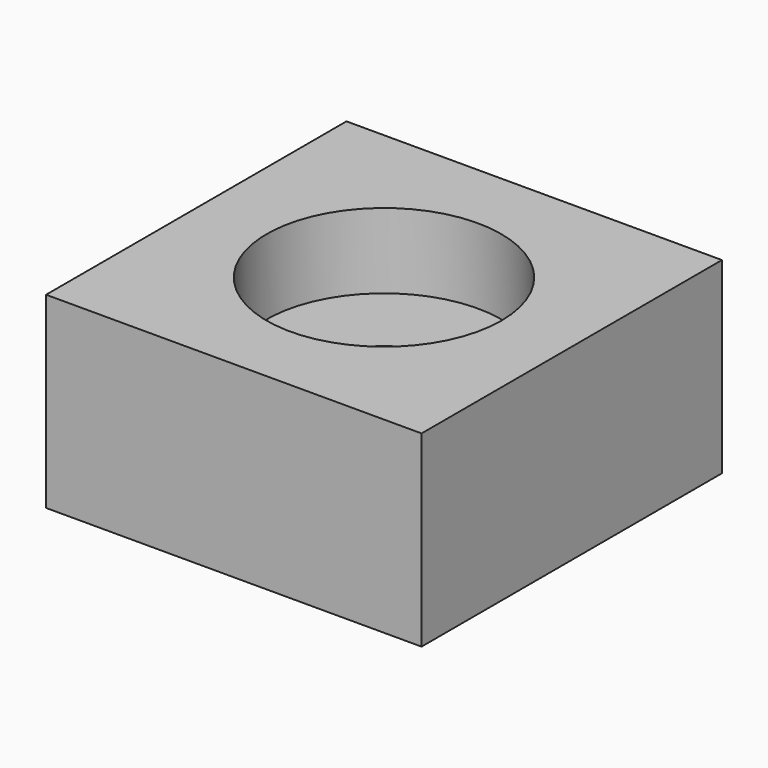
from build123d import *

# Parameters (mm, degrees)
SKETCH_W        = 40
SKETCH_H        = 40
PAD_DEPTH       = 20
SKETCH001_R     = 3.05
POCKET_DEPTH    = 15
SKETCH002_R     = 12.5
POCKET001_DEPTH = 8


with BuildPart() as part:
    # Sketch → Pad (new body)
    with BuildSketch(Plane.XY):
        with Locations((20, 20)):
            Rectangle(SKETCH_W, SKETCH_H)
    extrude(amount=PAD_DEPTH)

    # Sketch001 (on Face6 of Pad) → Pocket (cut)
    with BuildSketch(Plane.XY.offset(20)):
        with Locations((20, 20)):
            Circle(SKETCH001_R)
    extrude(amount=-POCKET_DEPTH, mode=Mode.SUBTRACT)

    # Sketch002 (on Face5 of Pocket) → Pocket001 (cut)
    with BuildSketch(Plane.XY.offset(20)):
        with Locations((20, 20)):
            Circle(SKETCH002_R)
    extrude(amount=-POCKET001_DEPTH, mode=Mode.SUBTRACT)


with BuildPart() as part_1:
    # Clone placement: moved
    add(part.part.moved(Location((1, 1, -20))))


solid = part_1.part
